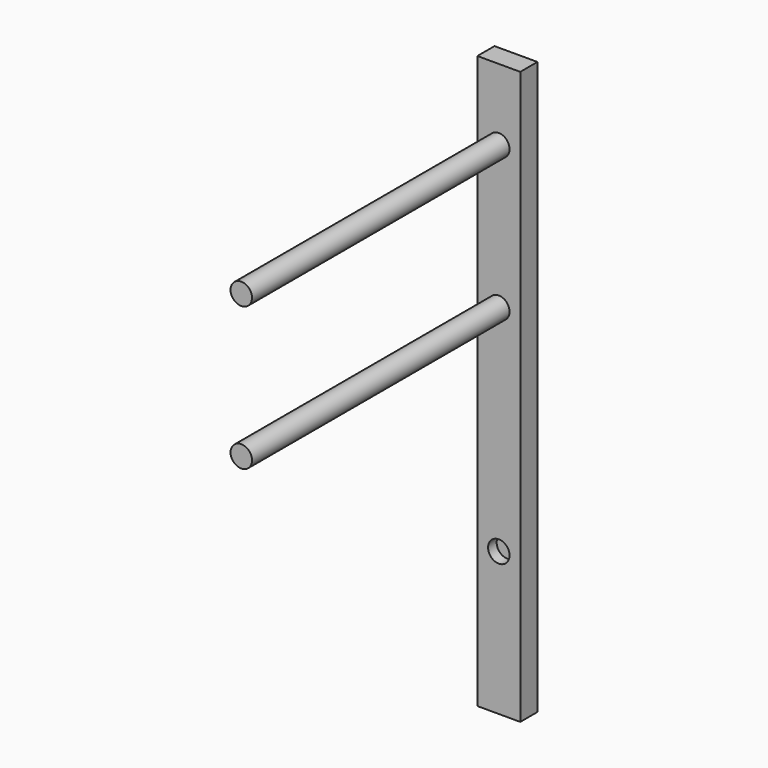
from build123d import *

# Parameters (mm, degrees)
F0_W     = 6
F0_H     = 80
F1_DEPTH = 3
F2_R     = 1.5
F3_DEPTH = 1.5
F4_R     = 1.5
F5_DEPTH = 45


with BuildPart() as f1:
    # F0 (on Front) → F1 (new body)
    with BuildSketch(Plane.XZ):
        Rectangle(F0_W, F0_H)
    extrude(amount=F1_DEPTH)

    # F2 (on face) → F3 (cut)
    with BuildSketch(Plane.XZ.offset(3)):
        with Locations((0, -20)):
            Circle(F2_R)
    extrude(amount=-F3_DEPTH, mode=Mode.SUBTRACT)

    # F4 (on face) → F5 (join)
    with BuildSketch(Plane.XZ.offset(3)):
        with Locations((0, 10)):
            Circle(F4_R)
        with Locations((0, 30)):
            Circle(F4_R)
    extrude(amount=F5_DEPTH)


solid = f1.part
